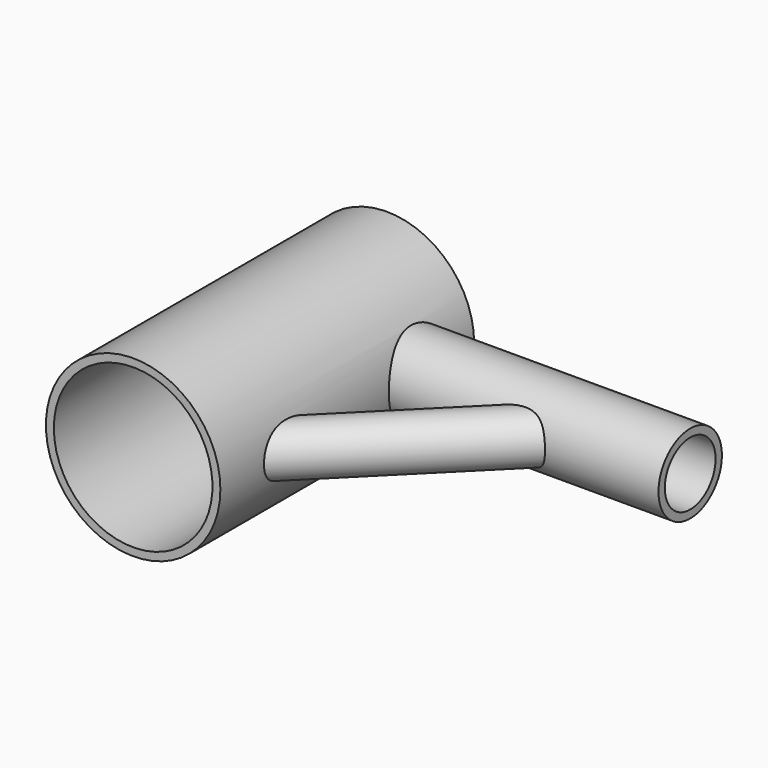
from build123d import *

# Parameters (mm, degrees)
F0_R      = 27.94
F1_DEPTH  = 50.8
F2_R      = 12.7
F3_DEPTH  = 114.3
F6_R      = 8.0768917326
F7_DEPTH  = 97.32637
F9_D      = 20.32
F9_DEPTH  = 127
F9_TIP    = 6.1047438893
F11_D     = 50.8
F11_DEPTH = 127
F11_TIP   = 15.2618597233
F13_D     = 12.7
F13_DEPTH = 93.98
F13_TIP   = 3.8154649308


with BuildPart() as f1:
    # F0 (on Front) → F1 (new body, symmetric)
    with BuildSketch(Plane.XZ):
        Circle(F0_R)
    extrude(amount=F1_DEPTH, both=True)

    # F2 (on Right) → F3 (join)
    with BuildSketch(Plane.YZ):
        with Locations((29.3527785689, 0)):
            Circle(F2_R)
    extrude(amount=F3_DEPTH)

    # F6 (on face) → F7 (join)
    with BuildSketch(Plane(origin=(-14.9178076535, -14.9178076535, 0), x_dir=(-0.7071067812, 0.7071067812, 0), z_dir=(0.7071067812, 0.7071067812, 0))):
        with Locations((-35.2585986257, 0)):
            Circle(F6_R)
    extrude(amount=F7_DEPTH)

    # F9
    with Locations(Plane.YZ.offset(114.3)):
        with Locations((29.3527785689, 0)):
            Hole(F9_D / 2, depth=F9_DEPTH)
            with Locations((0, 0, -(F9_DEPTH + F9_TIP / 2))):  # 118° drill point
                Cone(0, F9_D / 2, F9_TIP, mode=Mode.SUBTRACT)

    # F11
    with Locations(Plane.XZ.offset(50.8)):
        with Locations((0, 0)):
            Hole(F11_D / 2, depth=F11_DEPTH)
            with Locations((0, 0, -(F11_DEPTH + F11_TIP / 2))):  # 118° drill point
                Cone(0, F11_D / 2, F11_TIP, mode=Mode.SUBTRACT)

    # F13
    with Locations(Plane(origin=(-14.9178076535, -14.9178076535, 0), x_dir=(-0.7071067812, 0.7071067812, 0), z_dir=(-0.7071067812, -0.7071067812, 0))):
        with Locations((-34.8447375, 0)):
            Hole(F13_D / 2, depth=F13_DEPTH)
            with Locations((0, 0, -(F13_DEPTH + F13_TIP / 2))):  # 118° drill point
                Cone(0, F13_D / 2, F13_TIP, mode=Mode.SUBTRACT)


solid = f1.part
